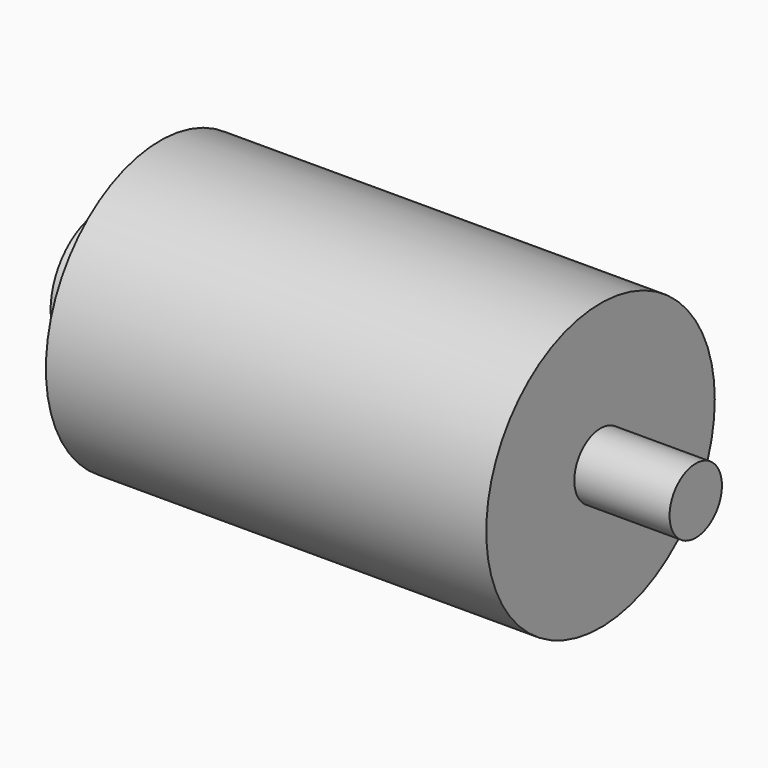
from build123d import *

# Parameters (mm, degrees)
SKETCH044_R  = 12
PAD020_DEPTH = 37
SKETCH045_R  = 2.75
PAD021_DEPTH = 8
SKETCH046_R  = 5.25
PAD022_DEPTH = 5


with BuildPart() as part:
    # Sketch044 → Pad020 (new body)
    with BuildSketch(Plane.YZ):
        Circle(SKETCH044_R)
    extrude(amount=PAD020_DEPTH)

    # Sketch045 (on Face3 of Pad020) → Pad021 (join)
    with BuildSketch(Plane.YZ.offset(37)):
        Circle(SKETCH045_R)
    extrude(amount=PAD021_DEPTH)

    # Sketch046 (on Face2 of Pad021) → Pad022 (join)
    with BuildSketch(Plane(origin=(0, 0, 0), x_dir=(0, 1, 0), z_dir=(-1, 0, 0))):
        Circle(SKETCH046_R)
    extrude(amount=PAD022_DEPTH)


with BuildPart() as part_1:
    # Body005 placement: moved
    add(part.part.moved(Location((35, -22, 16))))


solid = part_1.part
